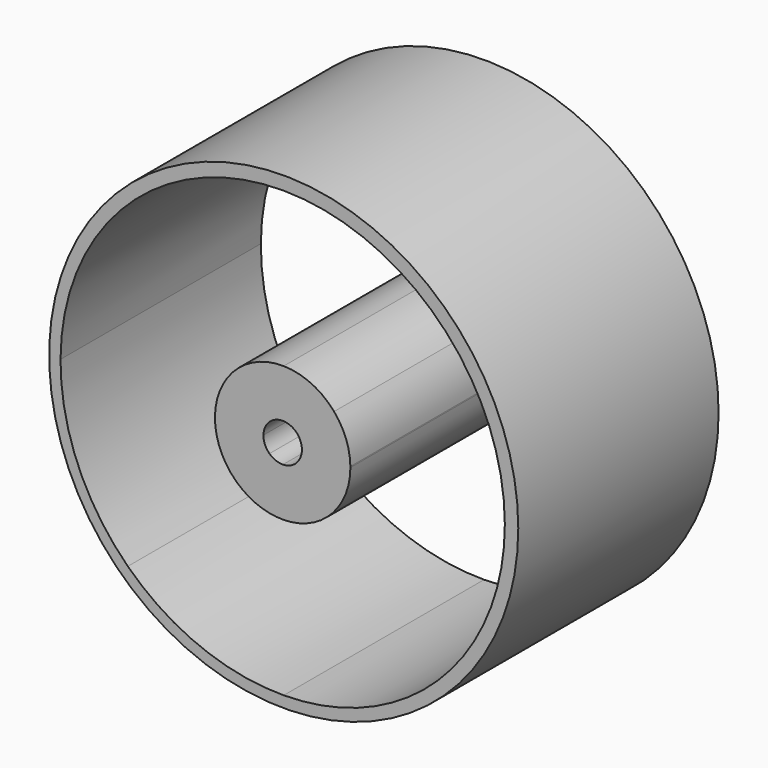
from build123d import *

# Parameters (mm, degrees)
F0_R     = 24.1955282069
F1_DEPTH = 25.83
F2_DEPTH = 25.83
F3_T     = -5


with BuildPart() as f1:
    # F0 (on Front) → F1 (new body)
    with BuildSketch(Plane.XZ):
        Circle(F0_R)
        with BuildLine():
            ThreePointArc((22.8069805174, 0), (22.8071705652, -0.0538819661), (22.8072339146, -0.1077642301))
            ThreePointArc((22.8072339146, -0.1077642301), (21.0003923413, -9.0264453451), (15.8648055636, -16.5386552563))
            ThreePointArc((15.8648055636, -16.5386552563), (8.5613983016, -21.3196197319), (0, -23.0225108241))
            ThreePointArc((0, -23.0225108241), (-8.6770781727, -21.360155045), (-16.0803377344, -16.5386552563))
            ThreePointArc((-16.0803377344, -16.5386552563), (-21.2368375186, -8.976787027), (-23.0225126882, 0))
            ThreePointArc((-23.0225126882, 0), (-20.9842018201, 9.3406036721), (-15.3120127095, 17.0365674745))
            ThreePointArc((-15.3120127095, 17.0365674745), (-8.1886294776, 21.3351103869), (0, 22.806982364))
            ThreePointArc((0, 22.806982364), (9.1274296662, 20.863844779), (16.7232305874, 15.4426304916))
            ThreePointArc((16.7232305874, 15.4426304916), (21.212405965, 8.2914910192), (22.8069805174, 0))
        make_face(mode=Mode.SUBTRACT)
    extrude(amount=F1_DEPTH)


with BuildPart() as f2:
    # F0 (on Front) → F2 (new body)
    with BuildSketch(Plane.XZ):
        with BuildLine():
            ThreePointArc((6.8772339146, -0.1077642301), (6.8770260765, -0.0538805117), (6.8764025745, 0))
            ThreePointArc((6.8764025745, 0), (6.4244277946, 2.3662341762), (5.1954822758, 4.4381990143))
            ThreePointArc((5.1954822758, 4.4381990143), (2.8597211871, 6.2155453691), (0, 6.8764044013))
            ThreePointArc((0, 6.8764044013), (-2.4781125568, 6.4627519297), (-4.6495656756, 5.1990503967))
            ThreePointArc((-4.6495656756, 5.1990503967), (-6.4299110761, 2.862203399), (-7.0919347454, 0))
            ThreePointArc((-7.0919347454, 0), (-6.5417201535, -2.827039878), (-4.8976605359, -5.191772113))
            ThreePointArc((-4.8976605359, -5.191772113), (-2.6342724132, -6.6198292463), (0, -7.0919328614))
            ThreePointArc((0, -7.0919328614), (2.7504465149, -6.481212726), (5.0358755768, -4.8335631521))
            ThreePointArc((5.0358755768, -4.8335631521), (6.400634717, -2.6436948275), (6.8772339146, -0.1077642301))
        make_face()
    extrude(amount=F2_DEPTH)

    # F3
    f3_openings = [f2.faces().sort_by_distance(p)[0] for p in [
        (-0.107766, -25.83, -0.107764),
    ]]
    offset(amount=F3_T, openings=f3_openings)


solid = Compound([f1.part, f2.part])
